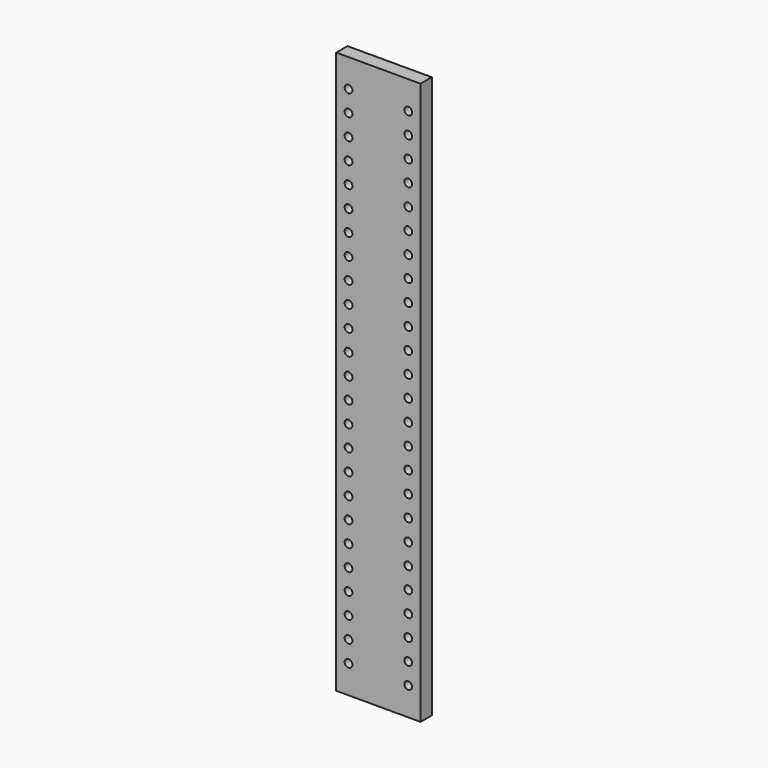
from build123d import *

# Parameters (mm, degrees)
F0_W     = 120
F0_H     = 800
F0_R     = 5.5
F1_DEPTH = 20


with BuildPart() as f1:
    # F0 (on Front) → F1 (new body)
    with BuildSketch(Plane.XZ):
        Rectangle(F0_W, F0_H)
        with Locations((-42.5, -360)):
            Circle(F0_R, mode=Mode.SUBTRACT)
        with Locations((-42.5, -330)):
            Circle(F0_R, mode=Mode.SUBTRACT)
        with Locations((-42.5, -300)):
            Circle(F0_R, mode=Mode.SUBTRACT)
        with Locations((-42.5, -270)):
            Circle(F0_R, mode=Mode.SUBTRACT)
        with Locations((-42.5, -240)):
            Circle(F0_R, mode=Mode.SUBTRACT)
        with Locations((-42.5, -210)):
            Circle(F0_R, mode=Mode.SUBTRACT)
        with Locations((-42.5, -180)):
            Circle(F0_R, mode=Mode.SUBTRACT)
        with Locations((-42.5, -150)):
            Circle(F0_R, mode=Mode.SUBTRACT)
        with Locations((-42.5, -120)):
            Circle(F0_R, mode=Mode.SUBTRACT)
        with Locations((-42.5, -90)):
            Circle(F0_R, mode=Mode.SUBTRACT)
        with Locations((-42.5, -60)):
            Circle(F0_R, mode=Mode.SUBTRACT)
        with Locations((-42.5, -30)):
            Circle(F0_R, mode=Mode.SUBTRACT)
        with Locations((42.5, -360)):
            Circle(F0_R, mode=Mode.SUBTRACT)
        with Locations((42.5, -330)):
            Circle(F0_R, mode=Mode.SUBTRACT)
        with Locations((42.5, -300)):
            Circle(F0_R, mode=Mode.SUBTRACT)
        with Locations((42.5, -270)):
            Circle(F0_R, mode=Mode.SUBTRACT)
        with Locations((42.5, -240)):
            Circle(F0_R, mode=Mode.SUBTRACT)
        with Locations((42.5, -210)):
            Circle(F0_R, mode=Mode.SUBTRACT)
        with Locations((42.5, -180)):
            Circle(F0_R, mode=Mode.SUBTRACT)
        with Locations((42.5, -150)):
            Circle(F0_R, mode=Mode.SUBTRACT)
        with Locations((42.5, -120)):
            Circle(F0_R, mode=Mode.SUBTRACT)
        with Locations((42.5, -90)):
            Circle(F0_R, mode=Mode.SUBTRACT)
        with Locations((42.5, -60)):
            Circle(F0_R, mode=Mode.SUBTRACT)
        with Locations((42.5, -30)):
            Circle(F0_R, mode=Mode.SUBTRACT)
        with Locations((-42.5, 0)):
            Circle(F0_R, mode=Mode.SUBTRACT)
        with Locations((-42.5, 30)):
            Circle(F0_R, mode=Mode.SUBTRACT)
        with Locations((-42.5, 60)):
            Circle(F0_R, mode=Mode.SUBTRACT)
        with Locations((-42.5, 90)):
            Circle(F0_R, mode=Mode.SUBTRACT)
        with Locations((-42.5, 120)):
            Circle(F0_R, mode=Mode.SUBTRACT)
        with Locations((-42.5, 150)):
            Circle(F0_R, mode=Mode.SUBTRACT)
        with Locations((-42.5, 180)):
            Circle(F0_R, mode=Mode.SUBTRACT)
        with Locations((-42.5, 210)):
            Circle(F0_R, mode=Mode.SUBTRACT)
        with Locations((-42.5, 240)):
            Circle(F0_R, mode=Mode.SUBTRACT)
        with Locations((-42.5, 270)):
            Circle(F0_R, mode=Mode.SUBTRACT)
        with Locations((-42.5, 300)):
            Circle(F0_R, mode=Mode.SUBTRACT)
        with Locations((-42.5, 330)):
            Circle(F0_R, mode=Mode.SUBTRACT)
        with Locations((-42.5, 360)):
            Circle(F0_R, mode=Mode.SUBTRACT)
        with Locations((42.5, 0)):
            Circle(F0_R, mode=Mode.SUBTRACT)
        with Locations((42.5, 30)):
            Circle(F0_R, mode=Mode.SUBTRACT)
        with Locations((42.5, 60)):
            Circle(F0_R, mode=Mode.SUBTRACT)
        with Locations((42.5, 90)):
            Circle(F0_R, mode=Mode.SUBTRACT)
        with Locations((42.5, 120)):
            Circle(F0_R, mode=Mode.SUBTRACT)
        with Locations((42.5, 150)):
            Circle(F0_R, mode=Mode.SUBTRACT)
        with Locations((42.5, 180)):
            Circle(F0_R, mode=Mode.SUBTRACT)
        with Locations((42.5, 210)):
            Circle(F0_R, mode=Mode.SUBTRACT)
        with Locations((42.5, 240)):
            Circle(F0_R, mode=Mode.SUBTRACT)
        with Locations((42.5, 270)):
            Circle(F0_R, mode=Mode.SUBTRACT)
        with Locations((42.5, 300)):
            Circle(F0_R, mode=Mode.SUBTRACT)
        with Locations((42.5, 330)):
            Circle(F0_R, mode=Mode.SUBTRACT)
        with Locations((42.5, 360)):
            Circle(F0_R, mode=Mode.SUBTRACT)
    extrude(amount=F1_DEPTH)


solid = f1.part
